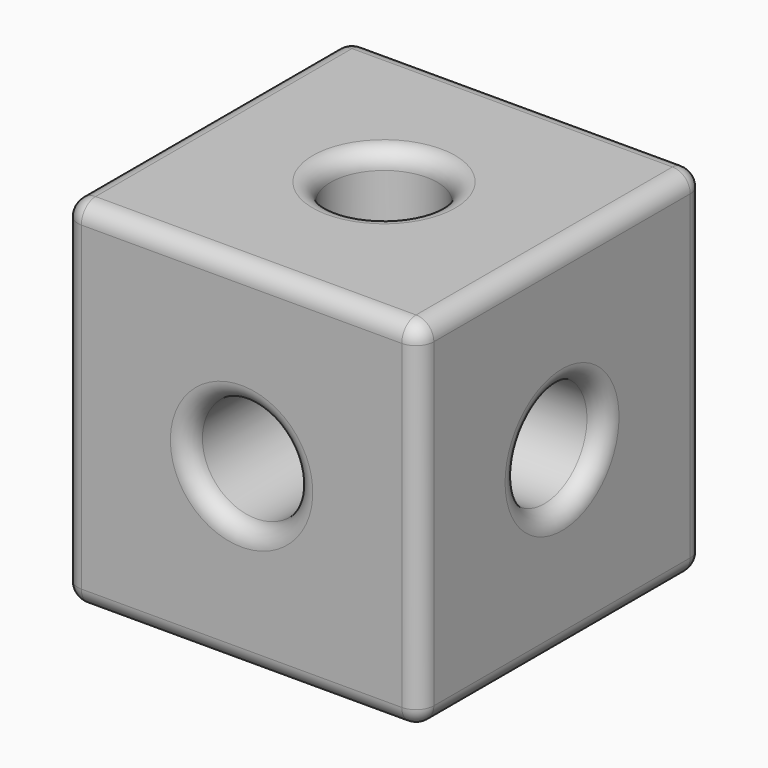
from build123d import *

# Parameters (mm, degrees)
F0_W     = 100
F0_H     = 100
F1_DEPTH = 100
F2_R     = 15
F3_DEPTH = 100.001
F4_R     = 15
F5_DEPTH = 100.001
F6_R     = 15
F7_DEPTH = 100.001
F8_R     = 5
F9_R     = 5


with BuildPart() as f1:
    # F0 (on Front) → F1 (new body)
    with BuildSketch(Plane.XZ):
        Rectangle(F0_W, F0_H)
    extrude(amount=F1_DEPTH)

    # F2 (on face) → F3 (cut, through all)
    with BuildSketch(Plane(origin=(-50, 0, 0), x_dir=(0, -1, 0), z_dir=(-1, 0, 0))):
        with Locations((50, 0)):
            Circle(F2_R)
    extrude(amount=-F3_DEPTH, mode=Mode.SUBTRACT)

    # F4 (on face) → F5 (cut, through all)
    with BuildSketch(Plane(origin=(0, 0, 0), x_dir=(-1, 0, 0), z_dir=(0, 1, 0))):
        Circle(F4_R)
    extrude(amount=-F5_DEPTH, mode=Mode.SUBTRACT)

    # F6 (on face) → F7 (cut, through all)
    with BuildSketch(Plane(origin=(0, 0, -50), x_dir=(1, 0, 0), z_dir=(0, 0, -1))):
        with Locations((0, 50)):
            Circle(F6_R)
    extrude(amount=-F7_DEPTH, mode=Mode.SUBTRACT)

    # F8
    f8_edges = [f1.edges().sort_by_distance(p)[0] for p in [
        (0, 0, 50),
        (-50, -50, 50),
        (-50, 0, 0),
        (-50, -50, -50),
        (0, 0, -50),
        (50, 0, 0),
        (-50, -100, 0),
        (-50, -35, 0),
        (0, -100, -50),
        (50, -50, -50),
        (50, -50, 50),
        (50, -100, 0),
        (0, -100, 50),
    ]]
    fillet(f8_edges, radius=F8_R)

    # F9
    f9_edges = [f1.edges().sort_by_distance(p)[0] for p in [
        (-15, -50, 50),
        (15, -100, 0),
        (50, -35, 0),
        (15, 0, 0),
        (-15, -50, -50),
    ]]
    fillet(f9_edges, radius=F9_R)


solid = f1.part
